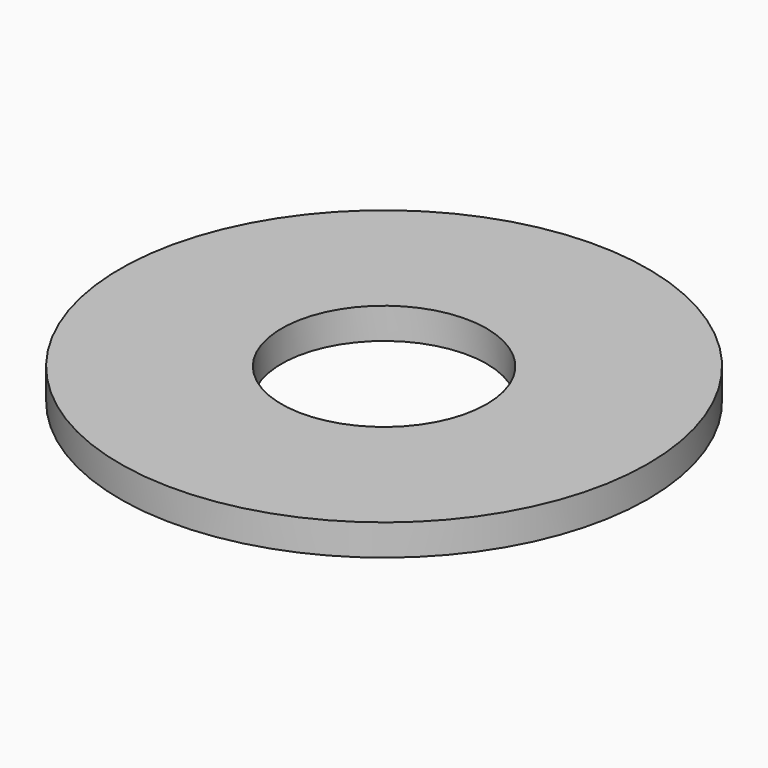
from build123d import *

# Parameters (mm, degrees)
CYLINDER030_R     = 1.651
CYLINDER030_DEPTH = 0.8
CYLINDER028_R     = 4.25
CYLINDER028_DEPTH = 0.5


with BuildPart() as washer_hole_cylinder:
    # Cylinder030 → Cylinder030 (new body)
    with BuildSketch(Plane(origin=(0, 10, 0), x_dir=(1, 0, 0), z_dir=(0, 0, 1))):
        Circle(CYLINDER030_R)
    extrude(amount=CYLINDER030_DEPTH)


with BuildPart() as f_6_32_washer:
    # Cylinder028 → Cylinder028 (new body)
    with BuildSketch(Plane(origin=(0, 10, 0), x_dir=(1, 0, 0), z_dir=(0, 0, 1))):
        Circle(CYLINDER028_R)
    extrude(amount=CYLINDER028_DEPTH)

    # Cut016: cut washer-hole-Cylinder
    add(washer_hole_cylinder.part, mode=Mode.SUBTRACT)


solid = f_6_32_washer.part
